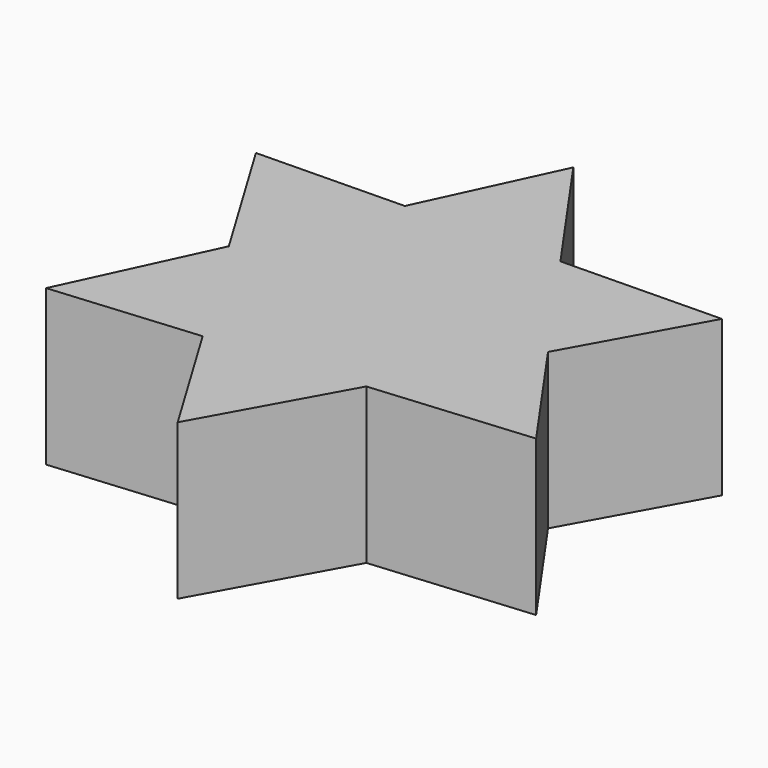
from build123d import *

# Parameters (mm, degrees)
F1_DEPTH = 51.054


with BuildPart() as f1:
    # F0 (on Top) → F1 (new body)
    with BuildSketch(Plane.XY):
        Polygon((26.910787, -41.390323), (79.043146, -36.794333), (51.337, 2.71809), (74.715888, 44.935263), (22.389678, 44.000587), (-7.656746, 86.850539), (-28.022435, 43.100101), (-76.273024, 42.238226), (-49.300465, -2.610264), (-71.3864, -50.056206), (-23.314565, -45.818192), (1.557135, -87.173489), align=None)
    extrude(amount=-F1_DEPTH)


solid = f1.part
